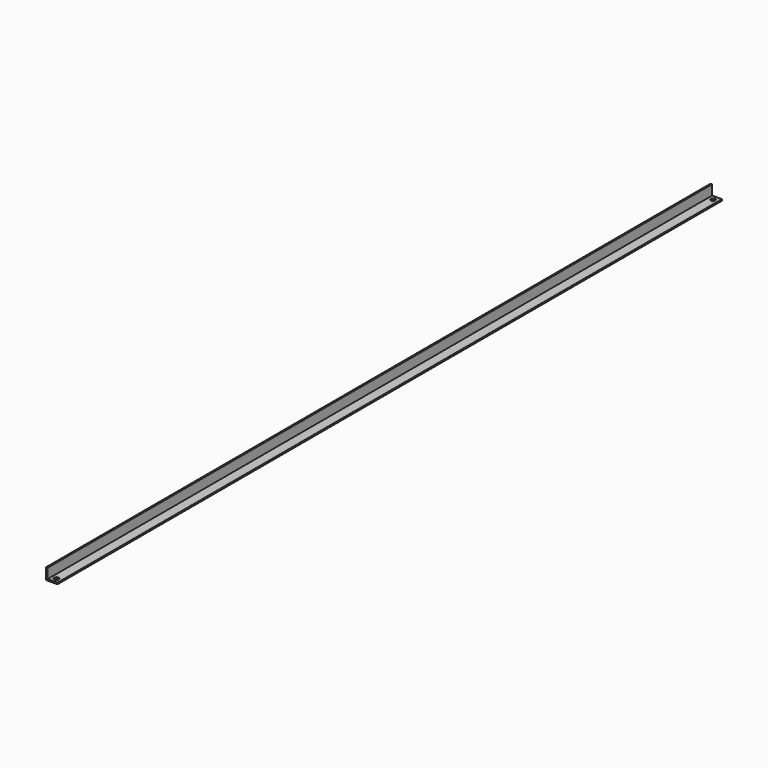
from build123d import *

# Parameters (mm, degrees)
F0_W     = 0.882425
F0_H     = 5.536785
F0_W_2   = 5.467575
F0_H_2   = 0.813215
F1_DEPTH = 463.55
F2_R     = 1.264941
F3_DEPTH = 25.4
F4_R     = 1.275366
F5_DEPTH = 25.4


with BuildPart() as f1:
    # F0 (on Front) → F1 (new body)
    with BuildSketch(Plane.XZ):
        with Locations((0.441213, 3.581607)):
            Rectangle(F0_W, F0_H)
        with Locations((3.616212, 0.406607)):
            Rectangle(F0_W_2, F0_H_2)
        with Locations((0.441213, 0.406607)):
            Rectangle(F0_W, F0_H_2)
    extrude(amount=F1_DEPTH)

    # F2 (on face) → F3 (cut)
    with BuildSketch(Plane.XY.offset(0.813215)):
        with Locations((3.616212, -2.749367)):
            Circle(F2_R)
    extrude(amount=-F3_DEPTH, mode=Mode.SUBTRACT)

    # F4 (on face) → F5 (cut)
    with BuildSketch(Plane.XY.offset(0.813215)):
        with Locations((3.616212, -460.805912)):
            Circle(F4_R)
    extrude(amount=-F5_DEPTH, mode=Mode.SUBTRACT)


solid = f1.part
